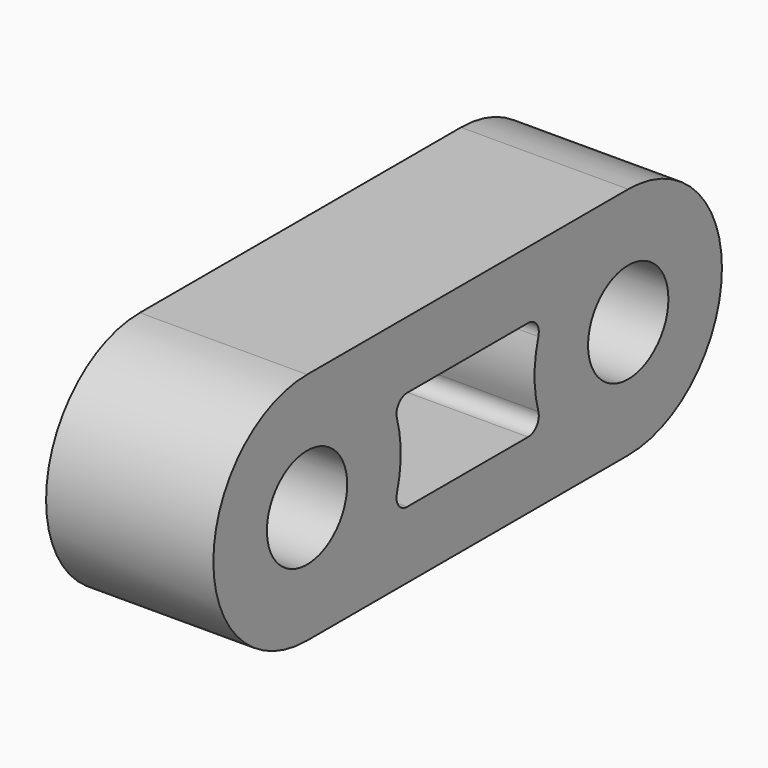
from build123d import *

# Parameters (mm, degrees)
F0_R     = 7.5
F1_DEPTH = 25
F2_R     = 2


with BuildPart() as f1:
    # F0 (on Right) → F1 (new body)
    with BuildSketch(Plane.YZ):
        with BuildLine():
            Line((30, 17.5), (-30, 17.5))
            ThreePointArc((-30, 17.5), (-47.5, 0), (-30, -17.5))
            Line((-30, -17.5), (30, -17.5))
            ThreePointArc((30, -17.5), (47.5, 0), (30, 17.5))
        make_face()
        with Locations((-30, 0)):
            Circle(F0_R, mode=Mode.SUBTRACT)
        with BuildLine():
            Line((-14.188612, 7.5), (14.188612, 7.5))
            ThreePointArc((14.188612, 7.5), (12.5, 0), (14.188612, -7.5))
            Line((14.188612, -7.5), (-14.188612, -7.5))
            ThreePointArc((-14.188612, -7.5), (-12.5, 0), (-14.188612, 7.5))
        make_face(mode=Mode.SUBTRACT)
        with Locations((30, 0)):
            Circle(F0_R, mode=Mode.SUBTRACT)
    extrude(amount=F1_DEPTH)

    # F2
    f2_edges = [f1.edges().sort_by_distance(p)[0] for p in [
        (12.5, -14.188612, 7.5),
        (12.5, -14.188612, -7.5),
        (12.5, 14.188612, -7.5),
        (12.5, 14.188612, 7.5),
    ]]
    fillet(f2_edges, radius=F2_R)


solid = f1.part
